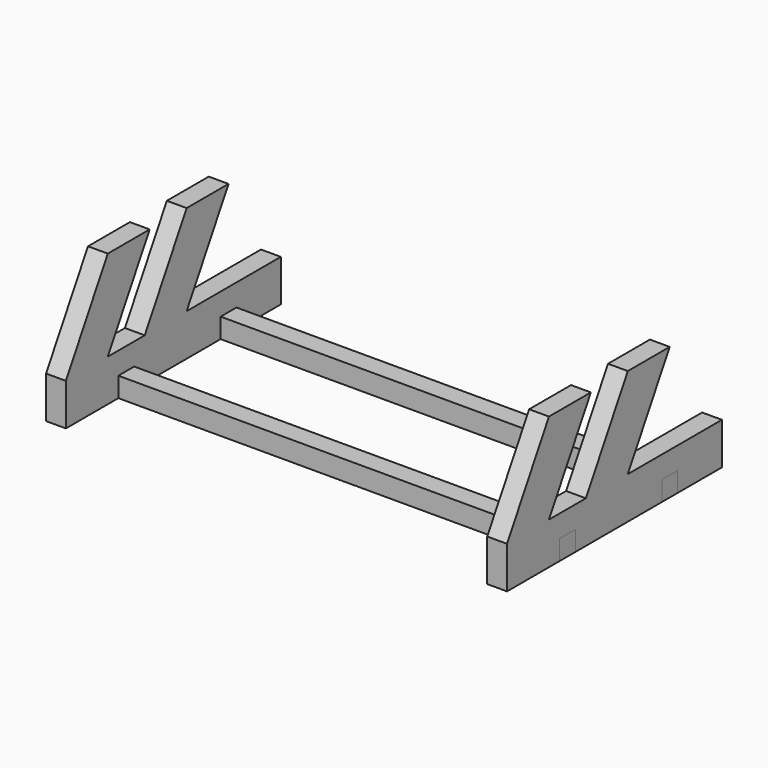
from build123d import *

# Parameters (mm, degrees)
F1_DEPTH = 6
F3_W     = 6
F3_H     = 6
F4_DEPTH = 139.7


with BuildPart() as f1:
    # F0 (on Right) → F1 (new body)
    with BuildSketch(Plane.YZ):
        Polygon((3.90504, -31.188029), (20.685668, -31.188029), (20.685668, -18.488029), (0.90504, -18.488029), (-14.96996, -18.488029), (0.90504, 9.008278), (-14.96996, 9.008278), (-30.84496, -18.488029), (-44.84496, -18.488029), (-28.96996, 9.008278), (-44.84496, 9.008278), (-60.71996, -18.488029), (-60.71996, -31.188029), (-40.84496, -31.188029), (-40.84496, -25.188029), (-34.84496, -25.188029), (-34.84496, -31.188029), (-2.09496, -31.188029), (-2.09496, -25.188029), (3.90504, -25.188029), align=None)
    extrude(amount=F1_DEPTH)


with BuildPart() as f2_1:
    # F2: copy of F1
    add(f1.part.moved(Location((133.7, 0, 0))))


with BuildPart() as f4:
    # F3 (on face) → F4 (new body)
    with BuildSketch(Plane.YZ.offset(139.7)):
        with Locations((-37.84496, -28.188029)):
            Rectangle(F3_W, F3_H)
        with Locations((0.90504, -28.188029)):
            Rectangle(F3_W, F3_H)
    extrude(amount=-F4_DEPTH)


solid = Compound([f1.part, f2_1.part, f4.part])
